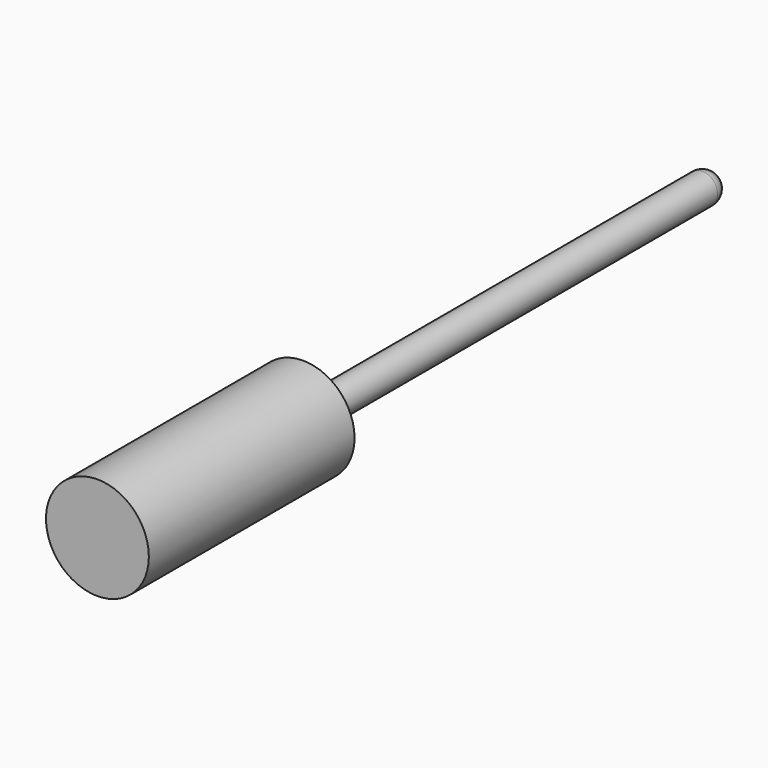
from build123d import *

# Parameters (mm, degrees)
F0_R     = 1.5
F1_DEPTH = 50
F2_R     = 5
F3_DEPTH = 25
F4_R     = 1.5


with BuildPart() as f1:
    # F0 (on Front) → F1 (new body)
    with BuildSketch(Plane.XZ):
        Circle(F0_R)
    extrude(amount=-F1_DEPTH)

    # F2 (on Front) → F3 (join)
    with BuildSketch(Plane.XZ):
        Circle(F2_R)
    extrude(amount=F3_DEPTH)

    # F4
    f4_edges = [f1.edges().sort_by_distance(p)[0] for p in [
        (-1.5, 50, 0),
    ]]
    fillet(f4_edges, radius=F4_R)


solid = f1.part
